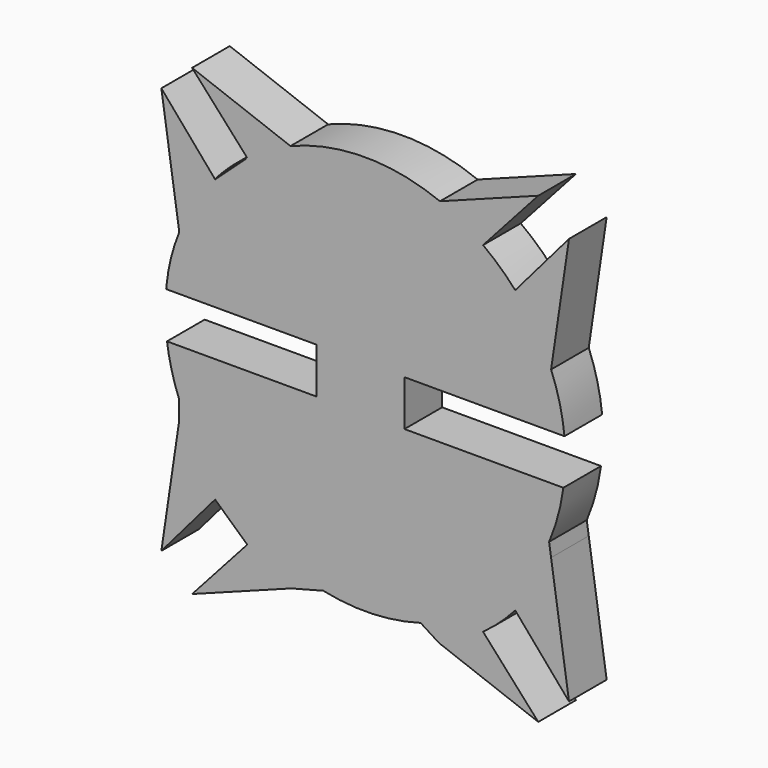
from build123d import *

# Parameters (mm, degrees)
F1_DEPTH = 4.3434


with BuildPart() as f1:
    # F0 (on Front) → F1 (new body)
    with BuildSketch(Plane.XZ):
        with BuildLine():
            ThreePointArc((15.940657, -30.021235), (15.833766, -30.712775), (15.753128, -31.407866))
            Line((15.753128, -31.407866), (15.761479, -31.407866))
            ThreePointArc((15.761479, -31.407866), (15.837097, -30.743943), (15.936717, -30.083195))
            Line((15.936717, -30.083195), (15.940657, -30.021235))
        make_face()
        with BuildLine():
            ThreePointArc((15.936717, -30.083195), (15.837097, -30.743943), (15.761479, -31.407866))
            Line((15.761479, -31.407866), (29.639391, -31.407866))
            Line((29.639391, -31.407866), (29.639391, -34.026345))
            Line((29.639391, -34.026345), (37.738703, -34.026345))
            Line((37.738703, -34.026345), (37.738703, -33.516066))
            Line((37.738703, -33.516066), (37.738703, -31.407866))
            Line((37.738703, -31.407866), (52.500848, -31.407866))
            ThreePointArc((52.500848, -31.407866), (52.059884, -28.853474), (51.265883, -26.385899))
            Line((51.265883, -26.385899), (52.917353, -15.238802))
            Line((52.917353, -15.238802), (47.958307, -21.024324))
            ThreePointArc((47.958307, -21.024324), (46.547291, -19.593445), (44.989268, -18.324217))
            Line((44.989268, -18.324217), (50.081812, -12.655849))
            Line((50.081812, -12.655849), (41.014464, -16.056665))
            Line((41.014464, -16.056665), (40.930312, -16.088227))
            ThreePointArc((40.930312, -16.088227), (34.112246, -14.784679), (27.294179, -16.088227))
            Line((27.294179, -16.088227), (27.21875, -16.059937))
            Line((27.21875, -16.059937), (18.142679, -12.655849))
            Line((18.142679, -12.655849), (23.20848, -18.294449))
            Line((23.20848, -18.294449), (23.235223, -18.324217))
            Line((23.235223, -18.324217), (20.266184, -21.024324))
            Line((20.266184, -21.024324), (20.25096, -21.006563))
            Line((20.25096, -21.006563), (15.307139, -15.238802))
            Line((15.307139, -15.238802), (16.958609, -26.385899))
            ThreePointArc((16.958609, -26.385899), (16.344763, -28.176471), (15.917278, -30.020437))
            Line((15.917278, -30.020437), (15.940657, -30.021235))
            Line((15.940657, -30.021235), (15.936717, -30.083195))
        make_face()
        with BuildLine():
            Line((37.738703, -34.026345), (29.639391, -34.026345))
            Line((29.639391, -34.026345), (29.639391, -35.624266))
            Line((29.639391, -35.624266), (15.82806, -35.624266))
            ThreePointArc((15.82806, -35.624266), (16.090138, -37.12187), (16.474419, -38.592866))
            ThreePointArc((16.474419, -38.592866), (16.702769, -39.290058), (16.958609, -39.977639))
            Line((16.958609, -39.977639), (16.958609, -41.666792))
            Line((16.958609, -41.666792), (15.307139, -52.813889))
            Line((15.307139, -52.813889), (20.266184, -47.028366))
            Line((20.266184, -47.028366), (23.235223, -49.728474))
            Line((23.235223, -49.728474), (18.142679, -55.396842))
            Line((18.142679, -55.396842), (27.294179, -51.964463))
            Line((27.294179, -51.964463), (30.11443, -51.22633))
            Line((30.11443, -51.22633), (30.241821, -51.192989))
            ThreePointArc((30.241821, -51.192989), (34.753518, -51.594634), (39.227042, -50.884485))
            Line((39.227042, -50.884485), (40.930312, -51.964463))
            Line((40.930312, -51.964463), (50.081812, -55.396842))
            Line((50.081812, -55.396842), (44.989268, -49.728474))
            ThreePointArc((44.989268, -49.728474), (46.547291, -48.459245), (47.958307, -47.028366))
            Line((47.958307, -47.028366), (52.917353, -52.813889))
            Line((52.917353, -52.813889), (51.265883, -41.666792))
            Line((51.265883, -41.666792), (51.084311, -40.441218))
            Line((51.084311, -40.441218), (51.079733, -40.410318))
            ThreePointArc((51.079733, -40.410318), (51.90089, -38.061868), (52.398499, -35.624266))
            Line((52.398499, -35.624266), (37.738703, -35.624266))
            Line((37.738703, -35.624266), (37.738703, -34.026345))
        make_face()
        with BuildLine():
            ThreePointArc((21.213653, -19.98888), (20.72264, -20.488578), (20.25096, -21.006563))
            Line((20.25096, -21.006563), (20.266184, -21.024324))
            ThreePointArc((20.266184, -21.024324), (21.6772, -19.593445), (23.235223, -18.324217))
            Line((23.235223, -18.324217), (23.20848, -18.294449))
            ThreePointArc((23.20848, -18.294449), (22.18097, -19.106233), (21.213653, -19.98888))
        make_face()
        with BuildLine():
            ThreePointArc((51.084311, -40.441218), (51.904816, -38.077325), (52.398499, -35.624266))
            ThreePointArc((52.398499, -35.624266), (51.90089, -38.061868), (51.079733, -40.410318))
            Line((51.079733, -40.410318), (51.084311, -40.441218))
        make_face()
        with BuildLine():
            ThreePointArc((41.014464, -16.056665), (34.11629, -14.719787), (27.21875, -16.059937))
            Line((27.21875, -16.059937), (27.294179, -16.088227))
            ThreePointArc((27.294179, -16.088227), (34.112246, -14.784679), (40.930312, -16.088227))
            Line((40.930312, -16.088227), (41.014464, -16.056665))
        make_face()
    extrude(amount=F1_DEPTH)


solid = f1.part
